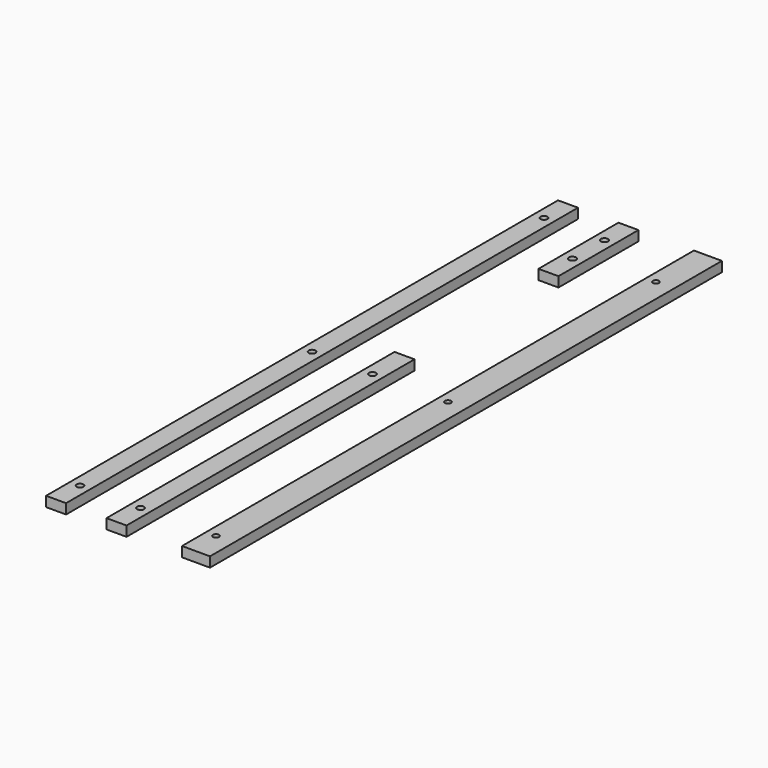
from build123d import *

# Parameters (mm, degrees)
F0_W      = 10
F0_H      = 320
F1_DEPTH  = 5
F3_D      = 3.5
F4_W      = 14
F4_H      = 320
F5_DEPTH  = 5
F7_D      = 3
F8_W      = 10
F8_H      = 90
F9_DEPTH  = 25
F10_W     = 10
F10_H     = 320
F11_DEPTH = 5
F13_D     = 3.4


with BuildPart() as f1:
    # F0 (on Top) → F1 (new body)
    with BuildSketch(Plane.XY):
        Rectangle(F0_W, F0_H)
    extrude(amount=F1_DEPTH)

    # F3 (through all)
    with Locations(Plane.XY.offset(5)):
        with Locations((0, 145), (0, 0), (0, -145), (0, 125)):
            Hole(F3_D / 2)

    # F8 (on face) → F9 (cut)
    with BuildSketch(Plane.XY.offset(5)):
        with Locations((0, 65)):
            Rectangle(F8_W, F8_H)
    extrude(amount=-F9_DEPTH, mode=Mode.SUBTRACT)


with BuildPart() as f5:
    # F4 (on Top) → F5 (new body)
    with BuildSketch(Plane.XY):
        with Locations((39.735682, 0)):
            Rectangle(F4_W, F4_H)
    extrude(amount=F5_DEPTH)

    # F7 (through all)
    with Locations(Plane.XY.offset(5)):
        with Locations((37.735682, 130), (37.735682, 0), (37.735682, -145)):
            Hole(F7_D / 2)


with BuildPart() as f11:
    # F10 (on Top) → F11 (new body)
    with BuildSketch(Plane.XY):
        with Locations((-30.23603, 0)):
            Rectangle(F10_W, F10_H)
    extrude(amount=F11_DEPTH)

    # F13 (through all)
    with Locations(Plane.XY.offset(5)):
        with Locations((-30.23603, 145), (-30.23603, 0), (-30.23603, -145)):
            Hole(F13_D / 2)


solid = Compound([f1.part, f5.part, f11.part])
